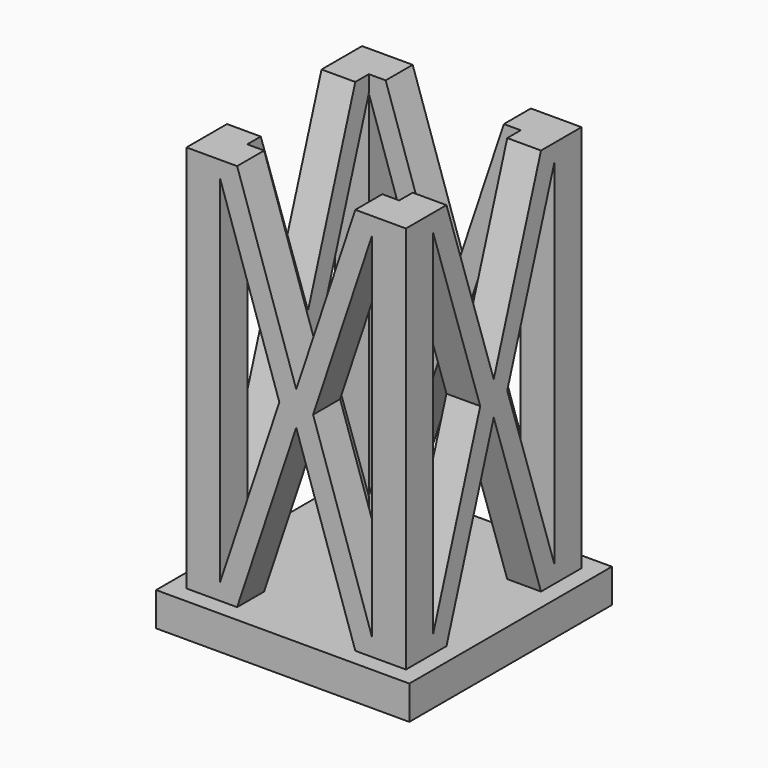
from build123d import *

# Parameters (mm, degrees)
F0_W      = 15
F0_H      = 15
F1_DEPTH  = 25
F2_W      = 9
F2_H      = 9
F3_DEPTH  = 23
F6_DEPTH  = 15.001
F8_DEPTH  = 15.001
F9_W      = 15
F9_H      = 15
F9_W_2    = 13
F9_H_2    = 13
F10_DEPTH = 40.4


with BuildPart() as f1:
    # F0 (on Top) → F1 (new body)
    with BuildSketch(Plane.XY):
        Rectangle(F0_W, F0_H)
    extrude(amount=F1_DEPTH)

    # F2 (on face) → F3 (cut)
    with BuildSketch(Plane.XY.offset(25)):
        Rectangle(F2_W, F2_H)
    extrude(amount=-F3_DEPTH, mode=Mode.SUBTRACT)

    # F5 (on face) → F6 (cut, through all)
    with BuildSketch(Plane.XZ.offset(7.5)):
        Polygon((3.5, 25), (-3.5, 25), (0, 14.5), align=None)
        Polygon((0, 12.5), (-3.5, 2), (3.5, 2), align=None)
        Polygon((-1, 13.5), (-4.5, 24), (-4.5, 3), align=None)
        Polygon((4.5, 3), (4.5, 24), (1, 13.5), align=None)
    extrude(amount=-F6_DEPTH, mode=Mode.SUBTRACT)

    # F7 (on face) → F8 (cut, through all)
    with BuildSketch(Plane.YZ.offset(7.5)):
        Polygon((3.5, 25), (-3.5, 25), (0, 14.5), align=None)
        Polygon((0, 12.5), (-3.5, 2), (3.5, 2), align=None)
        Polygon((4.5, 3), (4.5, 24), (1, 13.5), align=None)
        Polygon((-1, 13.5), (-4.5, 24), (-4.5, 3), align=None)
    extrude(amount=-F8_DEPTH, mode=Mode.SUBTRACT)

    # F9 (on face) → F10 (cut)
    with BuildSketch(Plane.XY.offset(2)):
        Rectangle(F9_W, F9_H)
        Rectangle(F9_W_2, F9_H_2, mode=Mode.SUBTRACT)
    extrude(amount=F10_DEPTH, mode=Mode.SUBTRACT)


solid = f1.part
